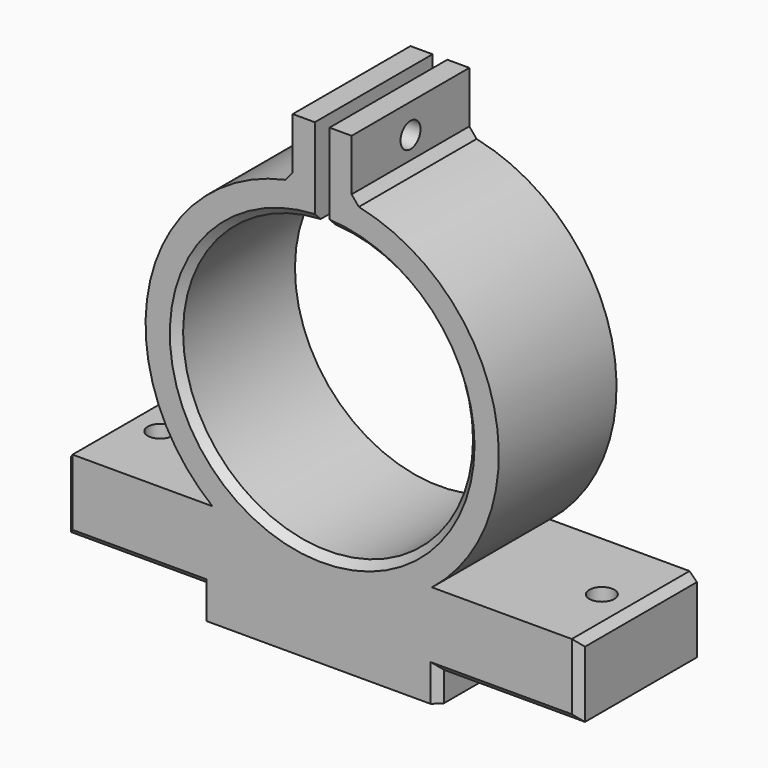
from build123d import *

# Parameters (mm, degrees)
SKETCH_R        = 19.7
PAD011_DEPTH    = 20
SKETCH020_W     = 2
SKETCH020_H     = 18
POCKET001_DEPTH = 30
SKETCH021_R     = 1.7
HOLE001_DEPTH   = 25
SKETCH022_R     = 1.7
HOLE002_DEPTH   = 25
CHAMFER003_SIZE = 1


with BuildPart() as part:
    # Sketch → Pad011 (new body)
    with BuildSketch(Plane.XZ.offset(100)):
        with BuildLine():
            Line((-34.918445, 6), (-34.918445, 16))
            Line((-34.918445, 16), (-14.918445, 16))
            ThreePointArc((-4, 58.464319), (-23.243956, 40.776496), (-14.918445, 16))
            Line((-4, 58.464319), (-4, 66.464319))
            Line((-4, 66.464319), (4, 66.464319))
            Line((4, 58.464319), (4, 66.464319))
            ThreePointArc((14.918445, 16), (23.243956, 40.776496), (4, 58.464319))
            Line((34.918445, 16), (14.918445, 16))
            Line((34.918445, 6), (34.918445, 16))
            Line((15.75, 6), (34.918445, 6))
            Line((15.75, 2), (15.75, 6))
            Line((-15.75, 2), (15.75, 2))
            Line((-15.75, 6), (-15.75, 2))
            Line((-15.75, 6), (-34.918445, 6))
        make_face()
        with Locations((0, 34.8)):
            Circle(SKETCH_R, mode=Mode.SUBTRACT)
    extrude(amount=PAD011_DEPTH)

    # Sketch020 → Pocket001 (cut)
    with BuildSketch(Plane.XZ.offset(98)):
        with Locations((0, 59.399123)):
            Rectangle(SKETCH020_W, SKETCH020_H)
    extrude(amount=POCKET001_DEPTH, mode=Mode.SUBTRACT)

    # Sketch021 → Hole001 (cut)
    with BuildSketch(Plane.XY):
        with Locations((-30, -110)):
            Circle(SKETCH021_R)
        with Locations((30, -110)):
            Circle(SKETCH021_R)
    extrude(amount=HOLE001_DEPTH, mode=Mode.SUBTRACT)

    # Sketch022 → Hole002 (cut)
    with BuildSketch(Plane.YZ.offset(-10)):
        with Locations((-110, 62.5)):
            Circle(SKETCH022_R)
    extrude(amount=HOLE002_DEPTH, mode=Mode.SUBTRACT)

    # Chamfer003
    chamfer003_edges = [part.edges().sort_by_distance(p)[0] for p in [
        (-13.571846, -120, 20.520819),
        (14.279181, -120, 48.371846),
        (-4, -110, 58.464319),
        (4, -110, 58.464319),
        (34.918445, -110, 16),
        (-34.918445, -110, 16),
        (-34.918445, -120, 11),
        (34.918445, -120, 11),
        (-25.334222, -120, 6),
        (15.75, -120, 4),
        (25.334222, -120, 6),
    ]]
    chamfer(chamfer003_edges, length=CHAMFER003_SIZE)


with BuildPart() as part_1:
    # Body placement: moved
    add(part.part.moved(Location((0, -25, 0))))


solid = part_1.part
